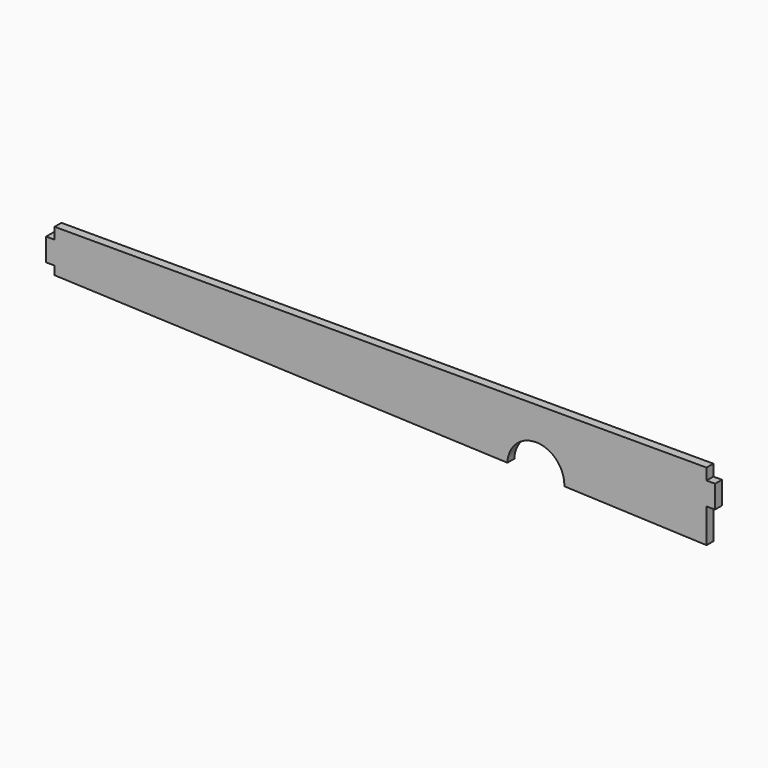
from build123d import *

# Parameters (mm, degrees)
F1_DEPTH = 3


with BuildPart() as f1:
    # F0 (on Front) → F1 (new body)
    with BuildSketch(Plane.XZ):
        with BuildLine():
            Line((229, 15), (0, 15))
            Line((0, 15), (0, 11))
            Line((0, 11), (-3, 11))
            Line((-3, 11), (-3, 3))
            Line((-3, 3), (0, 3))
            Line((0, 3), (0, 0))
            Line((0, 0), (159.053998, -6.25103))
            ThreePointArc((159.053998, -6.25103), (169.438994, 3.348546), (179.03857, -7.03645))
            Line((179.03857, -7.03645), (229, -9))
            Line((229, -9), (229, 3))
            Line((229, 3), (232, 3))
            Line((232, 3), (232, 11))
            Line((232, 11), (229, 11))
            Line((229, 11), (229, 15))
        make_face()
    extrude(amount=F1_DEPTH)


solid = f1.part
